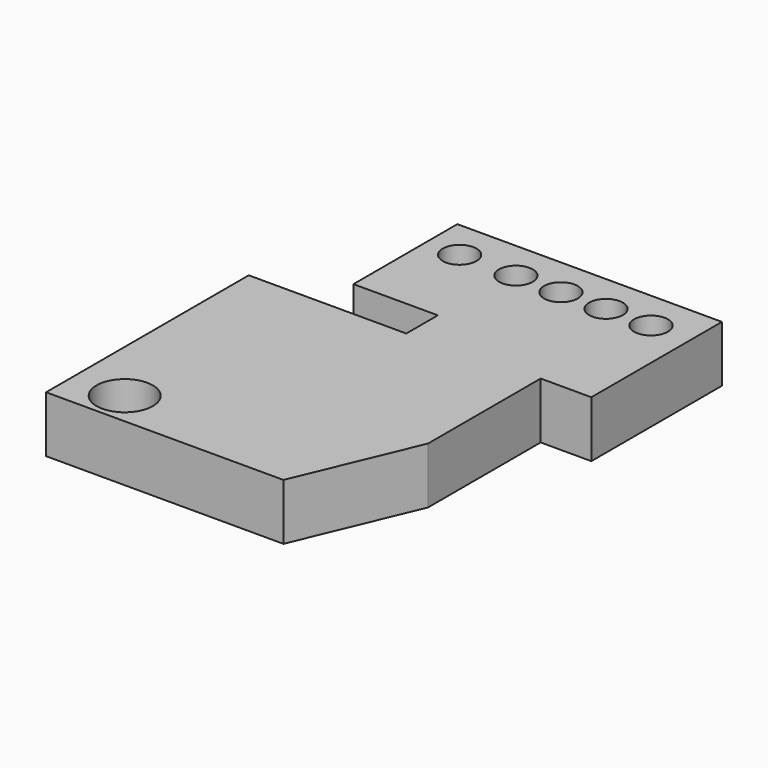
from build123d import *

# Parameters (mm, degrees)
F0_R     = 12.5
F0_R_2   = 7.5
F1_DEPTH = 25


with BuildPart() as f1:
    # F0 (on Top) → F1 (new body)
    with BuildSketch(Plane.XY):
        Polygon((80, 114.432458), (-37.5, 114.432458), (-37.5, 56.732458), (0, 56.732458), (0, 39.232458), (-70, 39.232458), (-70, -73.267542), (-50, -73.267542), (-25, -73.267542), (0, -73.267542), (35.415397, -73.267542), (57.5, -20.567542), (57.5, 41.932458), (80, 41.932458), (80, 96.932458), align=None)
        with Locations((-47.084603, -58.267542)):
            Circle(F0_R, mode=Mode.SUBTRACT)
        with Locations((-22.084603, -33.267542)):
            Circle(F0_R, mode=Mode.SUBTRACT)
        with Locations((0, -8.267542)):
            Circle(F0_R, mode=Mode.SUBTRACT)
        with Locations((-22.5, 96.932458)):
            Circle(F0_R_2, mode=Mode.SUBTRACT)
        with Locations((2.5, 96.932458)):
            Circle(F0_R_2, mode=Mode.SUBTRACT)
        with Locations((22.5, 96.932458)):
            Circle(F0_R_2, mode=Mode.SUBTRACT)
        with Locations((42.5, 96.932458)):
            Circle(F0_R_2, mode=Mode.SUBTRACT)
        with Locations((62.5, 96.932458)):
            Circle(F0_R_2, mode=Mode.SUBTRACT)
        with Locations((0, -8.267542)):
            Circle(F0_R)
        with Locations((-22.084603, -33.267542)):
            Circle(F0_R)
    extrude(amount=F1_DEPTH)


solid = f1.part
